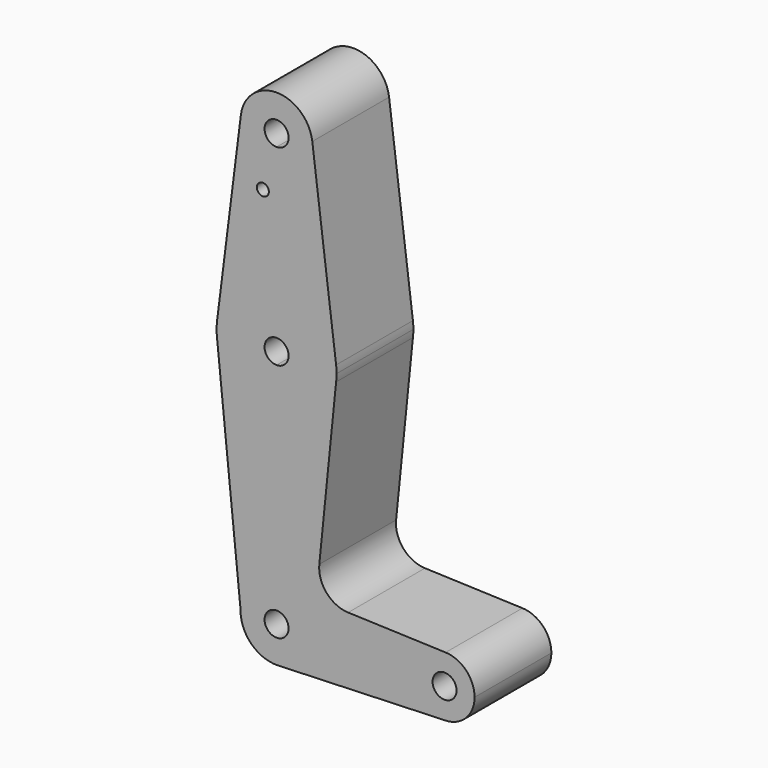
from build123d import *

# Parameters (mm, degrees)
F0_R     = 1.5875
F1_DEPTH = 25.4


with BuildPart() as f1:
    # F0 (on Front) → F1 (new body)
    with BuildSketch(Plane.XZ):
        with BuildLine():
            ThreePointArc((-53.9002929642, 84.7135615408), (-51.59375, 77.2227412314), (-44.45, 73.9979365408))
            ThreePointArc((-44.45, 73.9979365408), (-37.7148079092, 76.78774445), (-34.925, 83.5229365408))
            ThreePointArc((-34.925, 83.5229365408), (-34.9436951058, 84.1194197828), (-34.9997070358, 84.7135615408))
            ThreePointArc((-34.9997070358, 84.7135615408), (-44.45, 93.0479365408), (-53.9002929642, 84.7135615408))
        make_face()
        with BuildLine():
            ThreePointArc((-41.275, 83.5229365408), (-42.2049359697, 81.2778725106), (-44.45, 80.3479365408))
            ThreePointArc((-44.45, 80.3479365408), (-46.6950640303, 85.7680005711), (-41.275, 83.5229365408))
        make_face(mode=Mode.SUBTRACT)
        with BuildLine():
            ThreePointArc((-34.925, 83.5229365408), (-37.7148079092, 76.78774445), (-44.45, 73.9979365408))
            Line((-44.45, 73.9979365408), (-44.45, 48.5979365408))
            ThreePointArc((-44.45, 48.5979365408), (-33.9496744842, 44.6291865408), (-28.6995117263, 34.7073115408))
            Line((-28.6995117263, 34.7073115408), (-34.9997070358, 84.7135615408))
            ThreePointArc((-34.9997070358, 84.7135615408), (-34.9436951058, 84.1194197828), (-34.925, 83.5229365408))
        make_face()
        with BuildLine():
            Line((-44.45, 48.5979365408), (-44.45, 73.9979365408))
            ThreePointArc((-44.45, 73.9979365408), (-51.59375, 77.2227412314), (-53.9002929642, 84.7135615408))
            Line((-53.9002929642, 84.7135615408), (-60.2004882737, 34.7073115408))
            ThreePointArc((-60.2004882737, 34.7073115408), (-54.9503255158, 44.6291865408), (-44.45, 48.5979365408))
        make_face()
        with Locations((-48.0749383569, 69.2481365408)):
            Circle(F0_R, mode=Mode.SUBTRACT)
        with BuildLine():
            ThreePointArc((-28.6995117263, 34.7073115408), (-33.9496744842, 44.6291865408), (-44.45, 48.5979365408))
            Line((-44.45, 48.5979365408), (-44.45, 35.8979365408))
            ThreePointArc((-44.45, 35.8979365408), (-42.2049359697, 34.9680005711), (-41.275, 32.7229365408))
            ThreePointArc((-41.275, 32.7229365408), (-42.2049359697, 30.4778725106), (-44.45, 29.5479365408))
            Line((-44.45, 29.5479365408), (-44.45, 16.8479365408))
            ThreePointArc((-44.45, 16.8479365408), (-33.9496744842, 20.8166865408), (-28.6995117263, 30.7385615408))
            Line((-28.6995117263, 30.7385615408), (-28.6995117263, 34.7073115408))
        make_face()
        with BuildLine():
            Line((-44.45, 35.8979365408), (-44.45, 48.5979365408))
            ThreePointArc((-44.45, 48.5979365408), (-54.9503255158, 44.6291865408), (-60.2004882737, 34.7073115408))
            Line((-60.2004882737, 34.7073115408), (-60.2004882737, 30.7385615408))
            ThreePointArc((-60.2004882737, 30.7385615408), (-54.9503255158, 20.8166865408), (-44.45, 16.8479365408))
            Line((-44.45, 16.8479365408), (-44.45, 29.5479365408))
            ThreePointArc((-44.45, 29.5479365408), (-47.625, 32.7229365408), (-44.45, 35.8979365408))
        make_face()
        with BuildLine():
            ThreePointArc((-28.575, 32.7229365408), (-28.6061585096, 33.7170752775), (-28.6995117263, 34.7073115408))
            Line((-28.6995117263, 34.7073115408), (-28.6995117263, 30.7385615408))
            ThreePointArc((-28.6995117263, 30.7385615408), (-28.6061585096, 31.7287978042), (-28.575, 32.7229365408))
        make_face()
        with BuildLine():
            Line((-60.2004882737, 30.7385615408), (-60.2004882737, 34.7073115408))
            ThreePointArc((-60.2004882737, 34.7073115408), (-60.325, 32.7229365408), (-60.2004882737, 30.7385615408))
        make_face()
        with BuildLine():
            Line((-33.1441910281, -13.1804393716), (-28.6995117263, 30.7385615408))
            ThreePointArc((-28.6995117263, 30.7385615408), (-33.9496744842, 20.8166865408), (-44.45, 16.8479365408))
            Line((-44.45, 16.8479365408), (-44.45, -21.2520634592))
            ThreePointArc((-44.45, -21.2520634592), (-37.7148079092, -24.0418713684), (-34.925, -30.7770634592))
            Line((-34.925, -30.7770634592), (-7.9375, -30.7770634592))
            ThreePointArc((-7.9375, -30.7770634592), (-5.5119104847, -25.0654306752), (0.2824052746, -22.8445888446))
            Line((0.2824052746, -22.8445888446), (-25.5172502203, -21.9260912575))
            ThreePointArc((-25.5172502203, -21.9260912575), (-31.2261796368, -19.2062642998), (-33.1441910281, -13.1804393716))
        make_face()
        with BuildLine():
            ThreePointArc((-44.45, 16.8479365408), (-54.9503255158, 20.8166865408), (-60.2004882737, 30.7385615408))
            Line((-60.2004882737, 30.7385615408), (-53.9731934732, -30.5915612449))
            ThreePointArc((-53.9731934732, -30.5915612449), (-51.1192846846, -23.976602681), (-44.45, -21.2520634592))
            Line((-44.45, -21.2520634592), (-44.45, 16.8479365408))
        make_face()
        with BuildLine():
            ThreePointArc((-44.45, -21.2520634592), (-51.1192846846, -23.976602681), (-53.9731934732, -30.5915612449))
            ThreePointArc((-53.9731934732, -30.5915612449), (-51.1298732281, -37.5671237429), (-44.1087293489, -40.295947813))
            ThreePointArc((-44.1087293489, -40.295947813), (-37.5952123318, -37.3904975916), (-34.925, -30.7770634592))
            Line((-34.925, -30.7770634592), (-41.275, -30.7770634592))
            ThreePointArc((-41.275, -30.7770634592), (-46.6950640303, -33.0221274894), (-44.45, -27.6020634592))
            Line((-44.45, -27.6020634592), (-44.45, -21.2520634592))
        make_face()
        with BuildLine():
            ThreePointArc((-34.925, -30.7770634592), (-37.5952123318, -37.3904975916), (-44.1087293489, -40.295947813))
            Line((-44.1087293489, -40.295947813), (0, -38.7145634592))
            ThreePointArc((0, -38.7145634592), (-5.6126600757, -36.3897235348), (-7.9375, -30.7770634592))
            Line((-7.9375, -30.7770634592), (-34.925, -30.7770634592))
        make_face()
        with BuildLine():
            ThreePointArc((7.9375, -30.7770634592), (5.7116327839, -25.2651529744), (0.2824052746, -22.8445888446))
            ThreePointArc((0.2824052746, -22.8445888446), (-5.5119104847, -25.0654306752), (-7.9375, -30.7770634592))
            ThreePointArc((-7.9375, -30.7770634592), (-5.6126600757, -36.3897235348), (0, -38.7145634592))
            ThreePointArc((0, -38.7145634592), (5.6126600757, -36.3897235348), (7.9375, -30.7770634592))
        make_face()
        with BuildLine():
            ThreePointArc((3.175, -30.7770634592), (0, -33.9520634592), (-3.175, -30.7770634592))
            ThreePointArc((-3.175, -30.7770634592), (0, -27.6020634592), (3.175, -30.7770634592))
        make_face(mode=Mode.SUBTRACT)
        with BuildLine():
            ThreePointArc((-34.925, -30.7770634592), (-37.7148079092, -24.0418713684), (-44.45, -21.2520634592))
            Line((-44.45, -21.2520634592), (-44.45, -27.6020634592))
            ThreePointArc((-44.45, -27.6020634592), (-42.2049359697, -28.5319994289), (-41.275, -30.7770634592))
            Line((-41.275, -30.7770634592), (-34.925, -30.7770634592))
        make_face()
    extrude(amount=F1_DEPTH)


solid = f1.part
